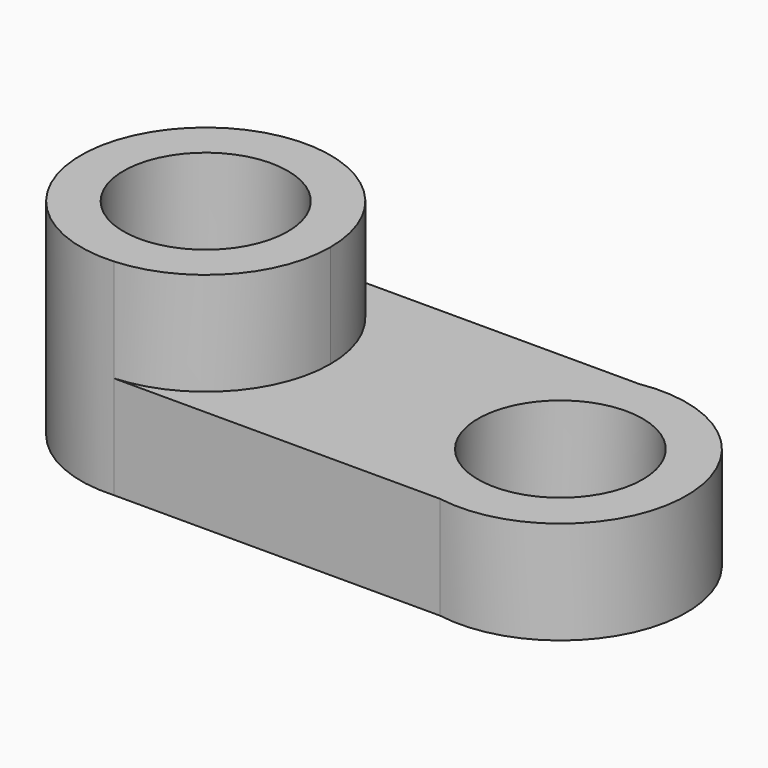
from build123d import *

# Parameters (mm, degrees)
F0_R     = 20.271946
F1_DEPTH = 50.8
F0_R_2   = 20.325544
F2_DEPTH = 25.4


with BuildPart() as f1:
    # F0 (on Top) → F1 (new body)
    with BuildSketch(Plane.XY):
        with BuildLine():
            ThreePointArc((-42.796278, -30.713562), (-22.320335, -21.053253), (-13.992892, 0))
            ThreePointArc((-13.992892, 0), (-22.320335, 21.053253), (-42.796278, 30.713562))
            ThreePointArc((-42.796278, 30.713562), (-75.546695, 0), (-42.796278, -30.713562))
        make_face()
        with Locations((-44.769794, 0)):
            Circle(F0_R, mode=Mode.SUBTRACT)
    extrude(amount=F1_DEPTH)

    # F0 (on Top) → F2 (join)
    with BuildSketch(Plane.XY):
        with BuildLine():
            ThreePointArc((-42.796278, 30.713562), (-22.320335, 21.053253), (-13.992892, 0))
            ThreePointArc((-13.992892, 0), (-22.320335, -21.053253), (-42.796278, -30.713562))
            Line((-42.796278, -30.713562), (37.625629, -30.713562))
            ThreePointArc((37.625629, -30.713562), (73.94204, 0), (37.625629, 30.713562))
            Line((37.625629, 30.713562), (-42.796278, 30.713562))
        make_face()
        with Locations((42.796278, 0)):
            Circle(F0_R_2, mode=Mode.SUBTRACT)
    extrude(amount=F2_DEPTH)


solid = f1.part
